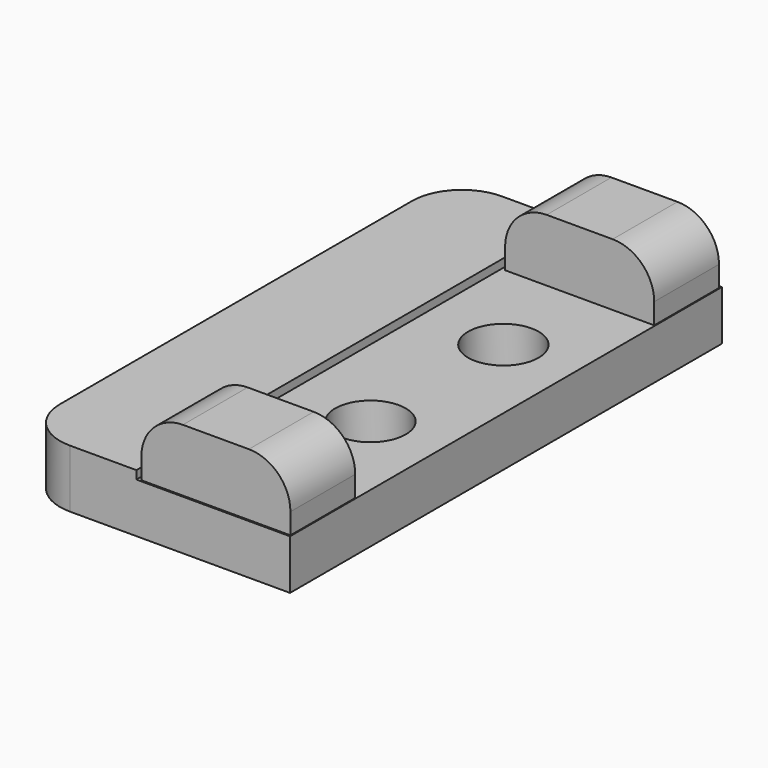
from build123d import *

# Parameters (mm, degrees)
PAD023_DEPTH    = 13
SKETCH050_R     = 0.85
POCKET025_DEPTH = 5
FILLET008_R     = 1.2
SKETCH061_W     = 3.59
SKETCH061_H     = 1.95
PAD032_DEPTH    = 1.5
FILLET011_R     = 1


with BuildPart() as part:
    # Sketch049 → Pad023 (new body)
    with BuildSketch(Plane.XZ.offset(-4)):
        Polygon((24.862594, 8.175321), (27.662594, 8.175321), (27.662594, 7.975321), (31.362594, 7.975321), (31.362594, 6.775321), (24.862594, 6.775321), align=None)
    extrude(amount=PAD023_DEPTH)

    # Sketch050 (on Face5 of Pad023) → Pocket025 (cut)
    with BuildSketch(Plane(origin=(0, 0, 6.775321), x_dir=(1, 0, 0), z_dir=(0, 0, -1))):
        with Locations((29.62, 4.4)):
            Circle(SKETCH050_R)
        with Locations((29.62, 0.4)):
            Circle(SKETCH050_R)
    extrude(amount=-POCKET025_DEPTH, mode=Mode.SUBTRACT)

    # Fillet008
    fillet008_edges = [part.edges().sort_by_distance(p)[0] for p in [
        (24.862594, -9, 7.475321),
        (24.862594, 4, 7.475321),
    ]]
    fillet(fillet008_edges, radius=FILLET008_R)

    # Sketch061 (on Face9 of Fillet008) → Pad032 (join)
    with BuildSketch(Plane(origin=(0, 0, 7.975321), x_dir=(-1, 0, 0), z_dir=(0, 0, 1))):
        with Locations((-29.547098, 7.987892)):
            Rectangle(SKETCH061_W, SKETCH061_H)
        with Locations((-29.547098, -2.962108)):
            Rectangle(SKETCH061_W, SKETCH061_H)
    extrude(amount=PAD032_DEPTH)

    # Fillet011
    fillet011_edges = [part.edges().sort_by_distance(p)[0] for p in [
        (27.752098, 2.962108, 9.475321),
        (31.342098, 2.962108, 9.475321),
        (27.752098, -7.987892, 9.475321),
        (31.342098, -7.987892, 9.475321),
    ]]
    fillet(fillet011_edges, radius=FILLET011_R)


with BuildPart() as part_1:
    # Body006 placement: moved
    add(part.part.moved(Location((0, -8.6, -0.3))))


solid = part_1.part
